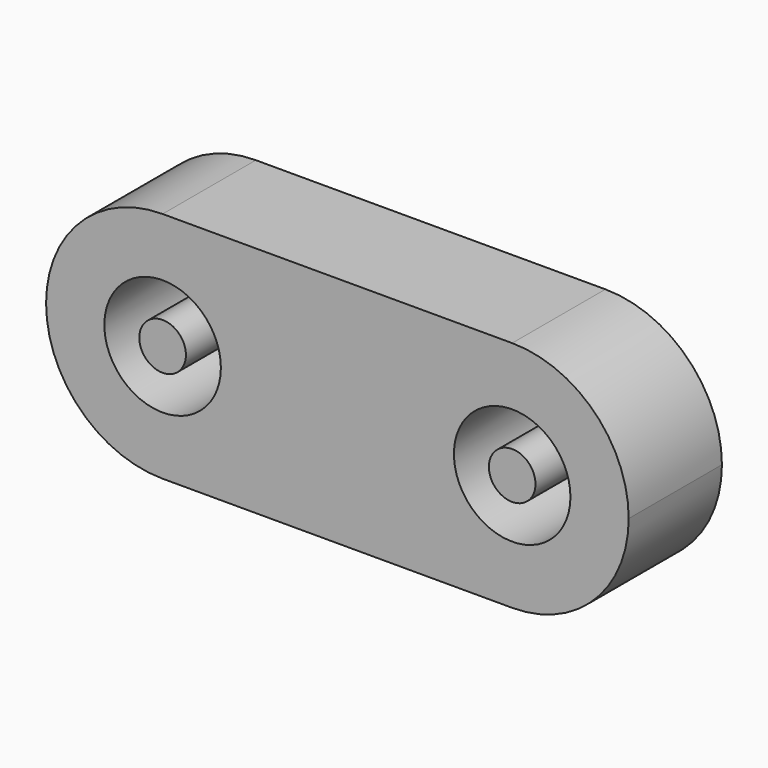
from build123d import *

# Parameters (mm, degrees)
F0_R     = 2.5
F0_R_2   = 1
F1_DEPTH = 5


with BuildPart() as f1:
    # F0 (on Front) → F1 (new body)
    with BuildSketch(Plane.XZ):
        with BuildLine():
            ThreePointArc((0, -5), (3.535534, -3.535534), (5, 0))
            ThreePointArc((5, 0), (3.535534, 3.535534), (0, 5))
            ThreePointArc((0, 5), (-5, 0), (0, -5))
        make_face()
        Circle(F0_R, mode=Mode.SUBTRACT)
        with BuildLine():
            ThreePointArc((20, 0), (18.535534, 3.535534), (15, 5))
            ThreePointArc((15, 5), (10, 0), (15, -5))
            ThreePointArc((15, -5), (18.535534, -3.535534), (20, 0))
        make_face()
        with Locations((15, 0)):
            Circle(F0_R, mode=Mode.SUBTRACT)
        with BuildLine():
            ThreePointArc((0, 5), (3.535534, 3.535534), (5, 0))
            ThreePointArc((5, 0), (3.535534, -3.535534), (0, -5))
            Line((0, -5), (15, -5))
            ThreePointArc((15, -5), (10, 0), (15, 5))
            Line((15, 5), (0, 5))
        make_face()
        Circle(F0_R_2)
        with Locations((15, 0)):
            Circle(F0_R_2)
    extrude(amount=F1_DEPTH)


solid = f1.part
